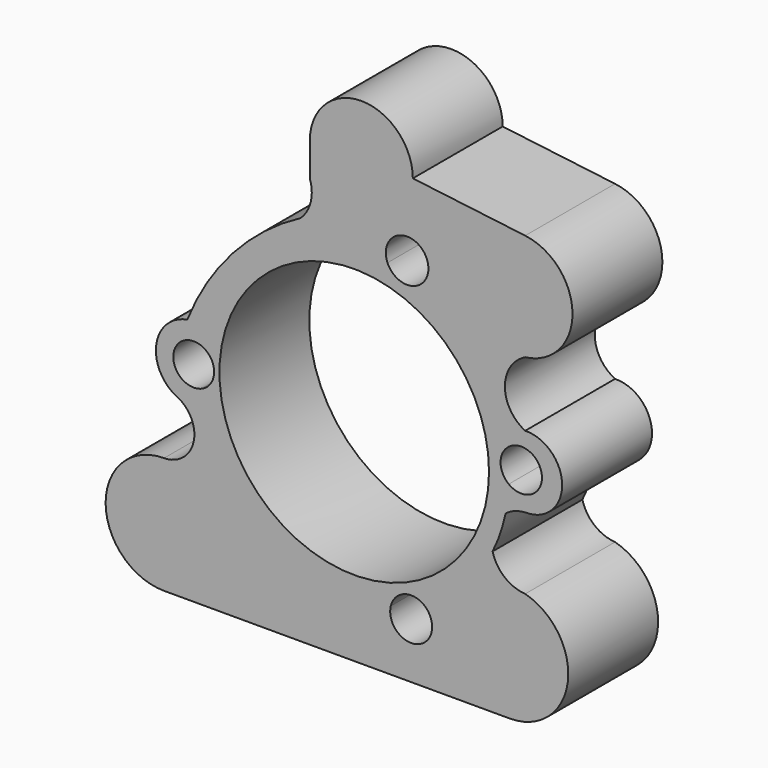
from build123d import *

# Parameters (mm, degrees)
F0_R     = 30
F1_DEPTH = 25


with BuildPart() as f1:
    # F0 (on Front) → F1 (new body)
    with BuildSketch(Plane.XZ):
        with BuildLine():
            ThreePointArc((-9.8709988717, 44.4664797866), (-9.6765479631, 39.9795085396), (-11.9125396102, 36.0845035997))
            ThreePointArc((-11.9125396102, 36.0845035997), (-27.0421470159, 24.2777678435), (-37.1553505028, 7.9674292602))
            ThreePointArc((-37.1553505028, 7.9674292602), (-44.036048411, 1.0836405197), (-39.8366623459, -7.6967756324))
            ThreePointArc((-39.8366623459, -7.6967756324), (-35.6999774991, -15.297082174), (-42.3349477351, -20.8517190672))
            ThreePointArc((-42.3349477351, -20.8517190672), (-55.3349477351, -33.8517190672), (-42.3349477351, -46.8517190672))
            Line((-42.3349477351, -46.8517190672), (34.6360049196, -46.8517190672))
            ThreePointArc((34.6360049196, -46.8517190672), (47.5210264522, -35.5768915526), (38.0558333228, -21.3095990832))
            ThreePointArc((38.0558333228, -21.3095990832), (33.4543868939, -19.5118063183), (30.786217704, -15.3541337437))
            ThreePointArc((30.786217704, -15.3541337437), (24.3583291, -24.2942879499), (15.4351278274, -30.7456899823))
            ThreePointArc((15.4351278274, -30.7456899823), (16.8378076077, -32.4009903223), (17.3415790067, -34.5113798976))
            ThreePointArc((17.3415790067, -34.5113798976), (12.1247193284, -39.1518231188), (8.1239473631, -33.4296590287))
            ThreePointArc((8.1239473631, -33.4296590287), (-19.4089792265, -28.4047909501), (-34.0963191618, -4.5805723603))
            ThreePointArc((-34.0963191618, -4.5805723603), (-40.2756080675, -0.3812017982), (-34.1769117208, 3.9343778115))
            ThreePointArc((-34.1769117208, 3.9343778115), (-19.9809519782, 28.0053955797), (7.3990994056, 33.5975289496))
            ThreePointArc((7.3990994056, 33.5975289496), (10.830759038, 40.0793765069), (16.5063219502, 35.4340970516))
            ThreePointArc((16.5063219502, 35.4340970516), (15.8808188237, 33.0810127965), (14.1694376368, 31.3491253561))
            ThreePointArc((14.1694376368, 31.3491253561), (27.1897380489, 21.0774469129), (33.8915853443, 5.9077124496))
            ThreePointArc((33.8915853443, 5.9077124496), (38.9210173699, 6.9384879734), (41.7815475753, 2.6752671693))
            ThreePointArc((41.7815475753, 2.6752671693), (39.2225245159, -1.4515862058), (34.38826426, -0.9939339614))
            ThreePointArc((34.38826426, -0.9939339614), (34.1710361171, -3.985086476), (33.6941290984, -6.9459547822))
            ThreePointArc((33.6941290984, -6.9459547822), (35.7555321816, -5.8176755547), (38.0558333228, -5.3370391578))
            ThreePointArc((38.0558333228, -5.3370391578), (46.2747957775, 2.659963746), (38.0558333228, 10.6569666498))
            ThreePointArc((38.0558333228, 10.6569666498), (33.5332006387, 17.8616815332), (38.0558333228, 25.0663964165))
            ThreePointArc((38.0558333228, 25.0663964165), (48.5844980046, 36.975853683), (38.0558333228, 48.8853109494))
            Line((38.0558333228, 48.8853109494), (13.0399948809, 51.975853683))
            ThreePointArc((13.0399948809, 51.975853683), (1.5844980046, 63.4313505593), (-9.8709988717, 51.975853683))
            Line((-9.8709988717, 51.975853683), (-9.8709988717, 44.4664797866))
        make_face()
        with BuildLine():
            ThreePointArc((15.4351278274, -30.7456899823), (24.3583291, -24.2942879499), (30.786217704, -15.3541337437))
            ThreePointArc((30.786217704, -15.3541337437), (30.9635483069, -10.7085321739), (33.6941290984, -6.9459547822))
            ThreePointArc((33.6941290984, -6.9459547822), (34.1710361171, -3.985086476), (34.38826426, -0.9939339614))
            ThreePointArc((34.38826426, -0.9939339614), (32.5791661443, 2.3445688104), (33.8915853443, 5.9077124496))
            ThreePointArc((33.8915853443, 5.9077124496), (27.1897380489, 21.0774469129), (14.1694376368, 31.3491253561))
            ThreePointArc((14.1694376368, 31.3491253561), (10.2739993221, 30.9368169475), (7.3990994056, 33.5975289496))
            ThreePointArc((7.3990994056, 33.5975289496), (-19.9809519782, 28.0053955797), (-34.1769117208, 3.9343778115))
            ThreePointArc((-34.1769117208, 3.9343778115), (-32.0065217205, 2.2701500151), (-31.1837948135, -0.3381765267))
            ThreePointArc((-31.1837948135, -0.3381765267), (-31.9820022181, -2.9111475958), (-34.0963191618, -4.5805723603))
            ThreePointArc((-34.0963191618, -4.5805723603), (-19.4089792265, -28.4047909501), (8.1239473631, -33.4296590287))
            ThreePointArc((8.1239473631, -33.4296590287), (11.0591409817, -30.1253010368), (15.4351278274, -30.7456899823))
        make_face()
        Circle(F0_R, mode=Mode.SUBTRACT)
        with BuildLine():
            ThreePointArc((33.6941290984, -6.9459547822), (30.9635483069, -10.7085321739), (30.786217704, -15.3541337437))
            ThreePointArc((30.786217704, -15.3541337437), (32.5131227245, -11.2444419264), (33.6941290984, -6.9459547822))
        make_face()
        with BuildLine():
            ThreePointArc((-9.8709988717, 44.4664797866), (-9.6765479631, 39.9795085396), (-11.9125396102, 36.0845035997))
            ThreePointArc((-11.9125396102, 36.0845035997), (-27.0421470159, 24.2777678435), (-37.1553505028, 7.9674292602))
            ThreePointArc((-37.1553505028, 7.9674292602), (-44.036048411, 1.0836405197), (-39.8366623459, -7.6967756324))
            ThreePointArc((-39.8366623459, -7.6967756324), (-35.6999774991, -15.297082174), (-42.3349477351, -20.8517190672))
            ThreePointArc((-42.3349477351, -20.8517190672), (-55.3349477351, -33.8517190672), (-42.3349477351, -46.8517190672))
            Line((-42.3349477351, -46.8517190672), (34.6360049196, -46.8517190672))
            ThreePointArc((34.6360049196, -46.8517190672), (47.5210264522, -35.5768915526), (38.0558333228, -21.3095990832))
            ThreePointArc((38.0558333228, -21.3095990832), (33.4543868939, -19.5118063183), (30.786217704, -15.3541337437))
            ThreePointArc((30.786217704, -15.3541337437), (24.3583291, -24.2942879499), (15.4351278274, -30.7456899823))
            ThreePointArc((15.4351278274, -30.7456899823), (16.8378076077, -32.4009903223), (17.3415790067, -34.5113798976))
            ThreePointArc((17.3415790067, -34.5113798976), (12.1247193284, -39.1518231188), (8.1239473631, -33.4296590287))
            ThreePointArc((8.1239473631, -33.4296590287), (-19.4089792265, -28.4047909501), (-34.0963191618, -4.5805723603))
            ThreePointArc((-34.0963191618, -4.5805723603), (-40.2756080675, -0.3812017982), (-34.1769117208, 3.9343778115))
            ThreePointArc((-34.1769117208, 3.9343778115), (-19.9809519782, 28.0053955797), (7.3990994056, 33.5975289496))
            ThreePointArc((7.3990994056, 33.5975289496), (10.830759038, 40.0793765069), (16.5063219502, 35.4340970516))
            ThreePointArc((16.5063219502, 35.4340970516), (15.8808188237, 33.0810127965), (14.1694376368, 31.3491253561))
            ThreePointArc((14.1694376368, 31.3491253561), (27.1897380489, 21.0774469129), (33.8915853443, 5.9077124496))
            ThreePointArc((33.8915853443, 5.9077124496), (38.9210173699, 6.9384879734), (41.7815475753, 2.6752671693))
            ThreePointArc((41.7815475753, 2.6752671693), (39.2225245159, -1.4515862058), (34.38826426, -0.9939339614))
            ThreePointArc((34.38826426, -0.9939339614), (34.1710361171, -3.985086476), (33.6941290984, -6.9459547822))
            ThreePointArc((33.6941290984, -6.9459547822), (35.7555321816, -5.8176755547), (38.0558333228, -5.3370391578))
            ThreePointArc((38.0558333228, -5.3370391578), (46.2747957775, 2.659963746), (38.0558333228, 10.6569666498))
            ThreePointArc((38.0558333228, 10.6569666498), (33.5332006387, 17.8616815332), (38.0558333228, 25.0663964165))
            ThreePointArc((38.0558333228, 25.0663964165), (48.5844980046, 36.975853683), (38.0558333228, 48.8853109494))
            Line((38.0558333228, 48.8853109494), (13.0399948809, 51.975853683))
            ThreePointArc((13.0399948809, 51.975853683), (1.5844980046, 63.4313505593), (-9.8709988717, 51.975853683))
            Line((-9.8709988717, 51.975853683), (-9.8709988717, 44.4664797866))
        make_face()
    extrude(amount=F1_DEPTH)


solid = f1.part
